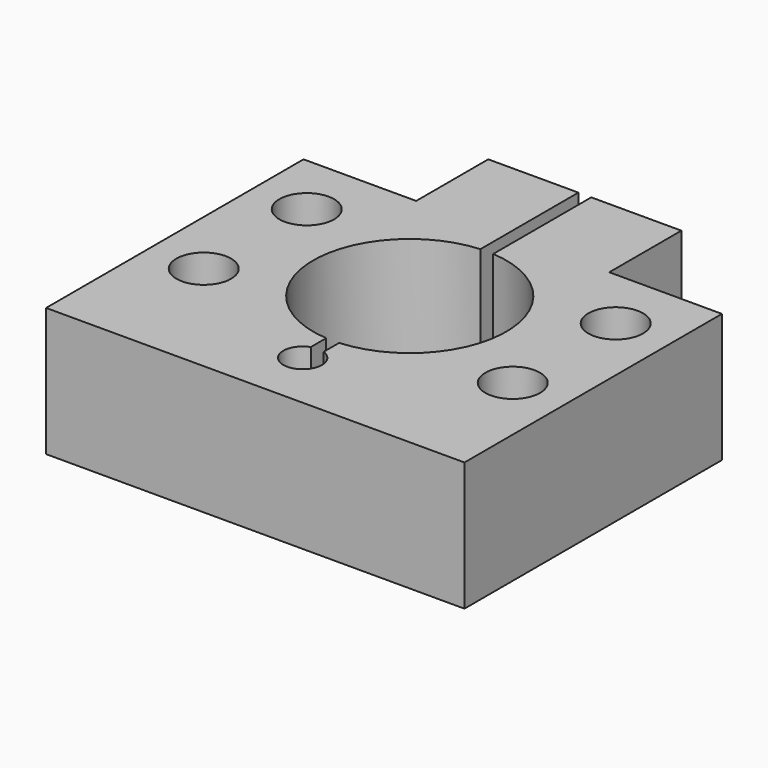
from build123d import *

# Parameters (mm, degrees)
F0_R     = 4.25
F1_DEPTH = 20
F2_R     = 3
F3_DEPTH = 30


with BuildPart() as f1:
    # F0 (on Top) → F1 (new body)
    with BuildSketch(Plane.XY):
        with BuildLine():
            Line((-1, 34), (-15, 34))
            Line((-15, 34), (-15, 20))
            Line((-15, 20), (-32.5, 20))
            Line((-32.5, 20), (-32.5, -30))
            Line((-32.5, -30), (32.5, -30))
            Line((32.5, -30), (32.5, 20))
            Line((32.5, 20), (15, 20))
            Line((15, 20), (15, 34))
            Line((15, 34), (1, 34))
            Line((1, 34), (1, 14.96663))
            ThreePointArc((1, 14.96663), (15, 0), (1, -14.96663))
            Line((1, -14.96663), (1, -17.96663))
            ThreePointArc((1, -17.96663), (0, -23.795057), (-1, -17.96663))
            Line((-1, -17.96663), (-1, -14.96663))
            ThreePointArc((-1, -14.96663), (-15, 0), (-1, 14.96663))
            Line((-1, 14.96663), (-1, 34))
        make_face()
        with Locations((-24, -10)):
            Circle(F0_R, mode=Mode.SUBTRACT)
        with Locations((24, -10)):
            Circle(F0_R, mode=Mode.SUBTRACT)
        with Locations((-24, 10)):
            Circle(F0_R, mode=Mode.SUBTRACT)
        with Locations((24, 10)):
            Circle(F0_R, mode=Mode.SUBTRACT)
    extrude(amount=F1_DEPTH)

    # F2 (on face) → F3 (cut)
    with BuildSketch(Plane.YZ.offset(15)):
        with Locations((27, 10)):
            Circle(F2_R)
    extrude(amount=-F3_DEPTH, mode=Mode.SUBTRACT)


solid = f1.part
